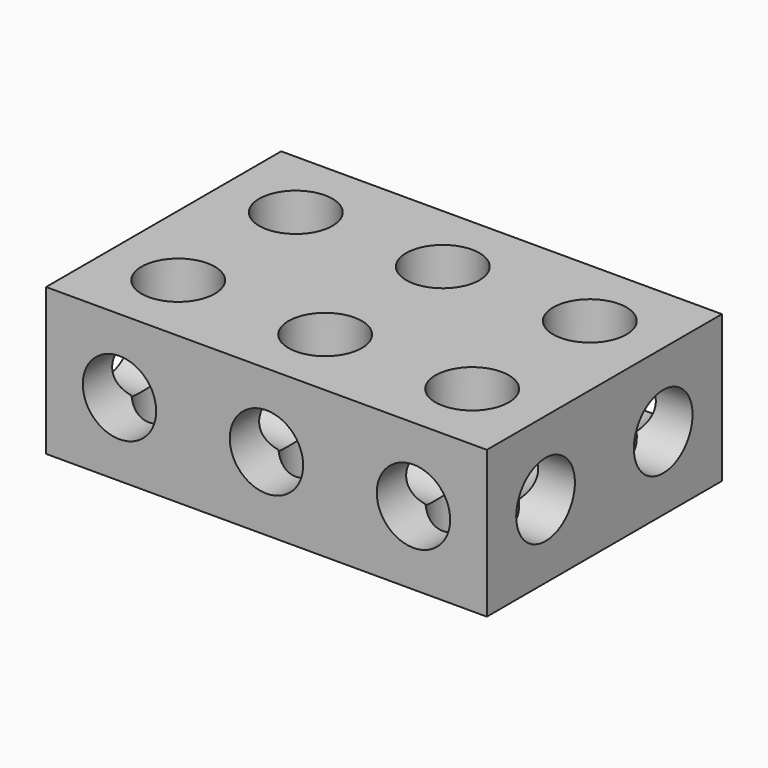
from build123d import *

# Parameters (mm, degrees)
SKETCH_W                           = 30
SKETCH_H                           = 20
PAD_DEPTH                          = 10
SKETCH001_R                        = 2.4975
POCKET_DEPTH                       = 10
SKETCH001_LINEARPATTERN_2_R        = 2.4975
POCKET_LINEARPATTERN_2_DEPTH       = 10
SKETCH001_LINEARPATTERN_3_R        = 2.4975
POCKET_LINEARPATTERN_3_DEPTH       = 10
LINEARPATTERN001_COUNT             = 2
LINEARPATTERN001_PITCH             = 10.01
SKETCH002_R                        = 2.4975
POCKET001_DEPTH                    = 20
SKETCH002_LINEARPATTERN002_2_R     = 2.4975
POCKET001_LINEARPATTERN002_2_DEPTH = 20
SKETCH002_LINEARPATTERN002_3_R     = 2.4975
POCKET001_LINEARPATTERN002_3_DEPTH = 20
LINEARPATTERN003_COUNT             = 1
LINEARPATTERN003_PITCH             = 0
SKETCH003_R                        = 2.4975
POCKET002_DEPTH                    = 30
SKETCH003_LINEARPATTERN004_2_R     = 2.4975
POCKET002_LINEARPATTERN004_2_DEPTH = 30
LINEARPATTERN005_COUNT             = 1
LINEARPATTERN005_PITCH             = 0


with BuildPart() as part:
    # Sketch → Pad (new body)
    with BuildSketch(Plane.XY):
        Rectangle(SKETCH_W, SKETCH_H)
    extrude(amount=PAD_DEPTH)

    # Sketch001 (on Face6 of Pad) → Pocket (cut)
    with BuildSketch(Plane.XY.offset(10)):
        with Locations((-10.005, -5.005)):
            Circle(SKETCH001_R)
    pocket = extrude(amount=-POCKET_DEPTH, mode=Mode.SUBTRACT)

    # Sketch001 LinearPattern 2 → Pocket LinearPattern 2 (cut)
    with BuildSketch(Plane(origin=(10.005, 0, 10), x_dir=(1, 0, 0), z_dir=(0, 0, 1))):
        with Locations((-10.005, -5.005)):
            Circle(SKETCH001_LINEARPATTERN_2_R)
    pocket_linearpattern_2 = extrude(amount=-POCKET_LINEARPATTERN_2_DEPTH, mode=Mode.SUBTRACT)

    # Sketch001 LinearPattern 3 → Pocket LinearPattern 3 (cut)
    with BuildSketch(Plane(origin=(20.01, 0, 10), x_dir=(1, 0, 0), z_dir=(0, 0, 1))):
        with Locations((-10.005, -5.005)):
            Circle(SKETCH001_LINEARPATTERN_3_R)
    pocket_linearpattern_3 = extrude(amount=-POCKET_LINEARPATTERN_3_DEPTH, mode=Mode.SUBTRACT)

    # LinearPattern001: Pocket, Pocket LinearPattern 2, Pocket LinearPattern 3 ×2
    with Locations(*[(0, i * LINEARPATTERN001_PITCH, 0) for i in range(1, LINEARPATTERN001_COUNT)]):
        add(pocket, mode=Mode.SUBTRACT)
        add(pocket_linearpattern_2, mode=Mode.SUBTRACT)
        add(pocket_linearpattern_3, mode=Mode.SUBTRACT)

    # Sketch002 (on Face6 of MultiTransform) → Pocket001 (cut)
    with BuildSketch(Plane.XZ.offset(10)):
        with Locations((-10.005, 4.995)):
            Circle(SKETCH002_R)
    pocket001 = extrude(amount=-POCKET001_DEPTH, mode=Mode.SUBTRACT)

    # Sketch002 LinearPattern002 2 → Pocket001 LinearPattern002 2 (cut)
    with BuildSketch(Plane(origin=(10.005, -10, 0), x_dir=(1, 0, 0), z_dir=(0, -1, 0))):
        with Locations((-10.005, 4.995)):
            Circle(SKETCH002_LINEARPATTERN002_2_R)
    pocket001_linearpattern002_2 = extrude(amount=-POCKET001_LINEARPATTERN002_2_DEPTH, mode=Mode.SUBTRACT)

    # Sketch002 LinearPattern002 3 → Pocket001 LinearPattern002 3 (cut)
    with BuildSketch(Plane(origin=(20.01, -10, 0), x_dir=(1, 0, 0), z_dir=(0, -1, 0))):
        with Locations((-10.005, 4.995)):
            Circle(SKETCH002_LINEARPATTERN002_3_R)
    pocket001_linearpattern002_3 = extrude(amount=-POCKET001_LINEARPATTERN002_3_DEPTH, mode=Mode.SUBTRACT)

    # LinearPattern003: Pocket001, Pocket001 LinearPattern002 2, Pocket001 LinearPattern002 3 ×1
    with Locations(*[(0, 0, i * LINEARPATTERN003_PITCH) for i in range(1, LINEARPATTERN003_COUNT)]):
        add(pocket001, mode=Mode.SUBTRACT)
        add(pocket001_linearpattern002_2, mode=Mode.SUBTRACT)
        add(pocket001_linearpattern002_3, mode=Mode.SUBTRACT)

    # Sketch003 (on Face2 of MultiTransform001) → Pocket002 (cut)
    with BuildSketch(Plane(origin=(-15, 0, 0), x_dir=(0, -1, 0), z_dir=(-1, 0, 0))):
        with Locations((-5.005, 4.995)):
            Circle(SKETCH003_R)
    pocket002 = extrude(amount=-POCKET002_DEPTH, mode=Mode.SUBTRACT)

    # Sketch003 LinearPattern004 2 → Pocket002 LinearPattern004 2 (cut)
    with BuildSketch(Plane(origin=(-15, -10.01, 0), x_dir=(0, -1, 0), z_dir=(-1, 0, 0))):
        with Locations((-5.005, 4.995)):
            Circle(SKETCH003_LINEARPATTERN004_2_R)
    pocket002_linearpattern004_2 = extrude(amount=-POCKET002_LINEARPATTERN004_2_DEPTH, mode=Mode.SUBTRACT)

    # LinearPattern005: Pocket002, Pocket002 LinearPattern004 2 ×1
    with Locations(*[(0, 0, i * LINEARPATTERN005_PITCH) for i in range(1, LINEARPATTERN005_COUNT)]):
        add(pocket002, mode=Mode.SUBTRACT)
        add(pocket002_linearpattern004_2, mode=Mode.SUBTRACT)


solid = part.part
